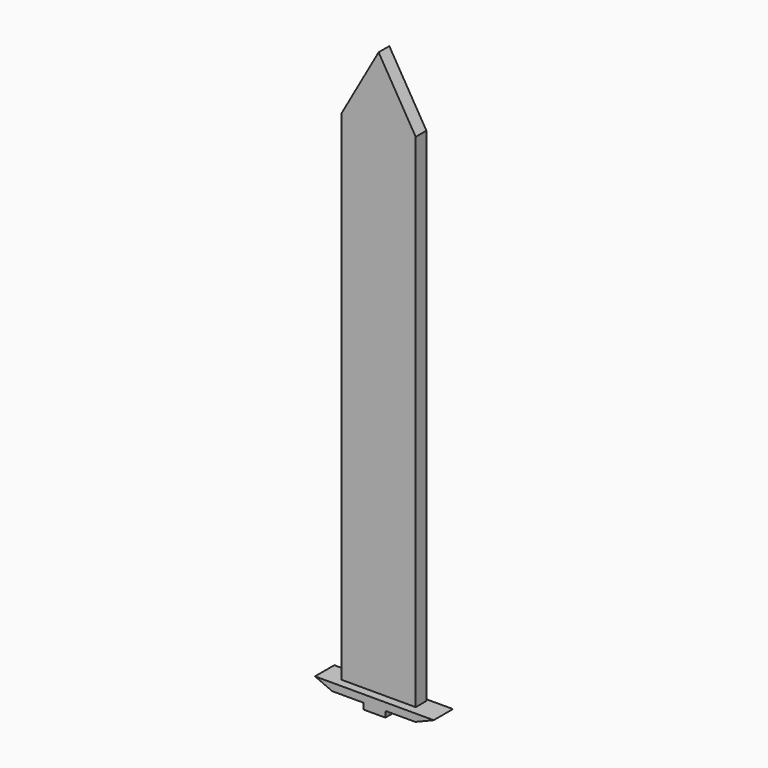
from build123d import *

# Parameters (mm, degrees)
F2_DEPTH      = 2.286
F2_DEPTH_BACK = 2.286
F4_DEPTH      = 1.27
F4_DEPTH_BACK = 1.27


with BuildPart() as f2:
    # F1 (on Front) → F2 (new body, two sides)
    with BuildSketch(Plane.XZ) as f2_sk:
        Polygon((-2.0462132525, -51.6566820443), (-2.0462132525, -52.7941547334), (2.0960764959, -52.7941547334), (2.1724712569, -51.6566820443), (7.7829770744, -51.6566820443), (11.2629123032, -50.236299634), (0, -50.236299634), (-11.2501317635, -50.236299634), (-7.9832542688, -51.6566820443), align=None)
    extrude(amount=-F2_DEPTH)
    extrude(f2_sk.sketch, amount=F2_DEPTH_BACK)


with BuildPart() as f4:
    # F3 (on Front) → F4 (new body, two sides)
    with BuildSketch(Plane.XZ) as f4_sk:
        Polygon((-7.0358, -49.8490490608), (0, -49.8490490608), (7.0358, -49.8490490608), (7.0358, 45.3573428094), (0, 57.1899116039), (-7.0358, 44.6999780834), align=None)
    extrude(amount=F4_DEPTH)
    extrude(f4_sk.sketch, amount=-F4_DEPTH_BACK)


solid = Compound([f2.part, f4.part])
